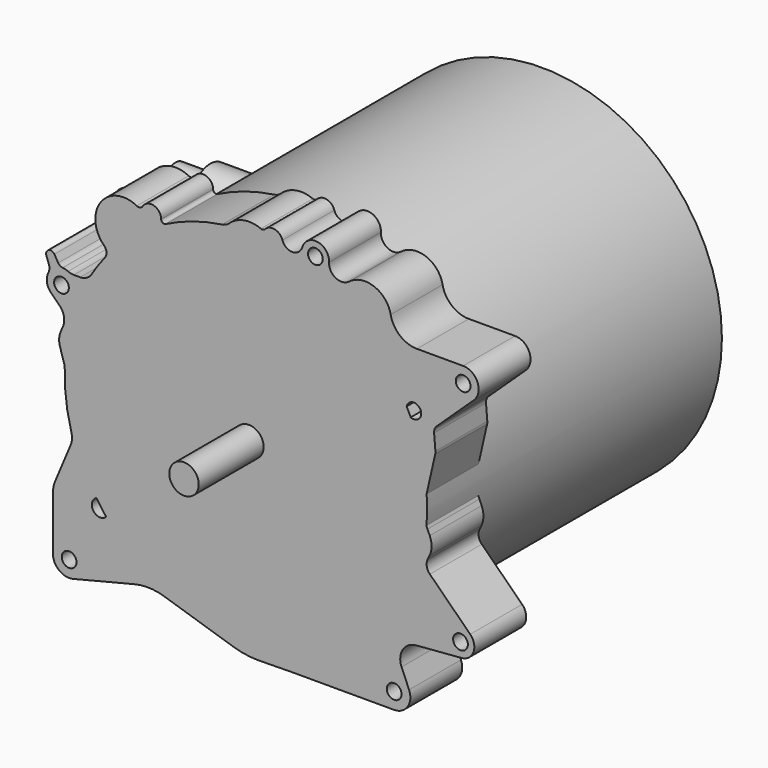
from build123d import *

# Parameters (mm, degrees)
SKETCH_R      = 10
PAD_DEPTH     = 55
SKETCH001_R   = 5
SKETCH001_R_2 = 5.752102
PAD001_DEPTH  = 44
SKETCH002_R   = 122
PAD002_DEPTH  = 250
PAD003_DEPTH  = 137
SKETCH004_R   = 9.029167
SKETCH004_R_2 = 6.410546
PAD004_DEPTH  = 28
SKETCH005_R   = 9.029167
SKETCH005_R_2 = 6.410546
PAD005_DEPTH  = 24


with BuildPart() as part:
    # Sketch → Pad (new body)
    with BuildSketch(Plane.XZ):
        Circle(SKETCH_R)
    extrude(amount=PAD_DEPTH)

    # Sketch001 → Pad001 (join)
    with BuildSketch(Plane.XZ):
        with BuildLine():
            ThreePointArc((96.175862, 107.050758), (85.01162, 120.214268), (67.94679, 117.623927))
            ThreePointArc((54.367316, 124.71944), (58.880143, 116.814107), (67.94679, 117.623927))
            ThreePointArc((54.367316, 124.71944), (46.670454, 134.337495), (36.21786, 127.81891))
            ThreePointArc((22.758705, 127.681071), (29.539283, 122.770138), (36.21786, 127.81891))
            ThreePointArc((22.758705, 127.681071), (17.601424, 132.416088), (10.911961, 130.349928))
            ThreePointArc((8.144721, 129.75708), (9.62161, 129.618152), (10.911961, 130.349928))
            ThreePointArc((8.144721, 129.75708), (-3.17481, 131.027317), (-13.371145, 125.949913))
            ThreePointArc((-18.099593, 123.682678), (-15.562998, 124.456805), (-13.371145, 125.949913))
            ThreePointArc((-18.099593, 123.682678), (-37.745711, 119.164849), (-56.410125, 111.547738))
            ThreePointArc((-59.467861, 113.415794), (-58.459377, 111.629973), (-56.410125, 111.547738))
            ThreePointArc((-59.467861, 113.415794), (-64.373735, 119.916678), (-72.004271, 117.069923))
            ThreePointArc((-76.03682, 116.00781), (-73.814492, 115.756539), (-72.004271, 117.069923))
            ThreePointArc((-76.03682, 116.00781), (-100.534649, 110.217356), (-98.248389, 85.148531))
            ThreePointArc((-97.764943, 77.891051), (-96.600774, 81.613442), (-98.248389, 85.148531))
            ThreePointArc((-97.764943, 77.891051), (-102.377192, 71.721061), (-106.600626, 65.278684))
            ThreePointArc((-114.445294, 60.883833), (-109.949364, 62.057409), (-106.600626, 65.278684))
            Line((-118.727486, 60.883833), (-114.445294, 60.883833))
            ThreePointArc((-122.640758, 61.745456), (-120.730989, 61.101788), (-118.727486, 60.883833))
            ThreePointArc((-122.640758, 61.745456), (-124.406768, 62.380022), (-126.256912, 62.693763))
            ThreePointArc((-129.326019, 64.601052), (-128.023095, 63.274682), (-126.256912, 62.693763))
            Line((-129.326019, 64.601052), (-131.922169, 68.949759))
            ThreePointArc((-131.922169, 68.949759), (-135.945808, 70.073625), (-137.270814, 66.111667))
            Line((-135.647932, 61.659144), (-137.270814, 66.111667))
            ThreePointArc((-135.958333, 56.645211), (-135.280116, 59.119799), (-135.647932, 61.659144))
            ThreePointArc((-135.958333, 56.645211), (-136.967186, 50.815076), (-134.488163, 45.442673))
            Line((-128.394518, 39.452321), (-134.488163, 45.442673))
            ThreePointArc((-126.12643, 27.585779), (-125.408538, 33.873016), (-128.394518, 39.452321))
            Line((-127.60596, 24.238917), (-126.12643, 27.585779))
            ThreePointArc((-127.60596, 24.238917), (-128.700482, 19.721553), (-128.147111, 15.106542))
            Line((-124.916008, 4.581578), (-128.147111, 15.106542))
            ThreePointArc((-124.916008, 4.581578), (-124.14364, -14.606734), (-120.441181, -33.45029))
            ThreePointArc((-120.957831, -41.567166), (-120.014396, -37.552337), (-120.441181, -33.45029))
            Line((-131.420927, -66.450927), (-120.957831, -41.567166))
            ThreePointArc((-131.420927, -66.450927), (-132.541496, -70.092422), (-132.92, -73.883583))
            Line((-132.92, -73.883583), (-132.92, -110.12))
            ThreePointArc((-132.92, -110.12), (-128.693171, -118.787419), (-119.261062, -120.793802))
            Line((-77.676912, -110.434825), (-119.261062, -120.793802))
            ThreePointArc((-57.595038, -111.058963), (-67.59276, -109.356427), (-77.676912, -110.434825))
            Line((-57.595038, -111.058963), (-10.608757, -125.917415))
            ThreePointArc((-10.608757, -125.917415), (-1.840442, -127.933804), (7.137416, -128.523075))
            Line((7.137416, -128.523075), (26.044697, -128.245047))
            ThreePointArc((33.531981, -128.19), (29.788238, -128.203762), (26.044697, -128.245047))
            Line((33.531981, -128.19), (98.52, -128.19))
            ThreePointArc((98.52, -128.19), (107.693886, -123.259581), (108.643935, -112.888147))
            Line((108.643935, -112.888147), (103.568399, -100.943433))
            ThreePointArc((113.34084, -84.800022), (104.323208, -90.37077), (103.568399, -100.943433))
            Line((113.34084, -84.800022), (144.283252, -82.30988))
            ThreePointArc((144.283252, -82.30988), (152.354382, -76.160143), (150.121204, -66.261894))
            Line((150.121204, -66.261894), (122.754449, -39.291647))
            ThreePointArc((121.283431, -30.889473), (120.674662, -35.32591), (122.754449, -39.291647))
            Line((122.493763, -28.358461), (121.283431, -30.889473))
            ThreePointArc((122.493763, -28.358461), (123.902721, -22.337711), (122.659289, -16.280611))
            Line((121.143318, -12.873569), (122.659289, -16.280611))
            ThreePointArc((119.540487, 3.52367), (119.013733, -4.804778), (121.143318, -12.873569))
            Line((126.394372, 33.640226), (119.540487, 3.52367))
            ThreePointArc((126.394372, 33.640226), (126.522404, 34.506324), (126.516063, 35.38181))
            Line((125.62119, 45.978723), (126.516063, 35.38181))
            ThreePointArc((127.371051, 50.552529), (125.973127, 48.465714), (125.62119, 45.978723))
            Line((152.523328, 74.255672), (127.371051, 50.552529))
            ThreePointArc((152.523328, 74.255672), (155.085641, 85.790421), (145.31, 92.427644))
            Line((113.958558, 92.427644), (145.31, 92.427644))
            ThreePointArc((96.175862, 107.050758), (102.447045, 96.552903), (113.958558, 92.427644))
        make_face()
        with Locations((145.31, 81.91)):
            Circle(SKETCH001_R, mode=Mode.SUBTRACT)
        with Locations((45.11, 125.2)):
            Circle(SKETCH001_R, mode=Mode.SUBTRACT)
        with Locations((143.53, -72.95)):
            Circle(SKETCH001_R, mode=Mode.SUBTRACT)
        with Locations((98.52, -117.19)):
            Circle(SKETCH001_R, mode=Mode.SUBTRACT)
        with Locations((-121.92, -110.12)):
            Circle(SKETCH001_R, mode=Mode.SUBTRACT)
        with Locations((-127.1, 52.11)):
            Circle(SKETCH001_R, mode=Mode.SUBTRACT)
        with Locations((111.87, 54.67)):
            Circle(SKETCH001_R, mode=Mode.SUBTRACT)
        with Locations((-100.79, -72.38)):
            Circle(SKETCH001_R_2, mode=Mode.SUBTRACT)
    extrude(amount=-PAD001_DEPTH)

    # Sketch002 → Pad002 (join)
    with BuildSketch(Plane.XZ):
        with Locations((-1.164187, -0.6689)):
            Circle(SKETCH002_R)
    extrude(amount=-PAD002_DEPTH)

    # Sketch003 → Pad003 (join)
    with BuildSketch(Plane(origin=(0, 0, 0), x_dir=(0, 1, -0.000994), z_dir=(1, 0, 0))):
        with BuildLine():
            ThreePointArc((154.118951, 45.729048), (139.583053, 65.163428), (122.55534, 47.870527))
            Line((125.500082, 12.556877), (122.55534, 47.870527))
            ThreePointArc((125.500082, 12.556877), (134.874857, 2.158872), (146.249936, 10.320521))
            Line((146.249936, 10.320521), (154.118951, 45.729048))
        make_face()
        with BuildLine():
            ThreePointArc((112.284143, 46.589719), (96.718502, 65.207545), (80.65021, 47.021765))
            Line((85.598581, 11.164033), (80.65021, 47.021765))
            ThreePointArc((85.598581, 11.164033), (95.856629, 2.100452), (106.358344, 10.880544))
            Line((106.358344, 10.880544), (112.284143, 46.589719))
        make_face()
    extrude(amount=-PAD003_DEPTH)

    # Sketch004 (on Face91 of Pad003) → Pad004 (join)
    with BuildSketch(Plane(origin=(-137, 0, 0), x_dir=(0, 0, -1), z_dir=(-1, 0, 0))):
        with Locations((-48.752483, -96.561478)):
            Circle(SKETCH004_R)
        with Locations((-48.752483, -96.561478)):
            Circle(SKETCH004_R_2, mode=Mode.SUBTRACT)
    extrude(amount=PAD004_DEPTH)

    # Sketch005 (on Face90 of Pad004) → Pad005 (join)
    with BuildSketch(Plane(origin=(-137, 0, 0), x_dir=(0, 0, -1), z_dir=(-1, 0, 0))):
        with Locations((-48.752483, -139.271042)):
            Circle(SKETCH005_R)
        with Locations((-48.752483, -139.271042)):
            Circle(SKETCH005_R_2, mode=Mode.SUBTRACT)
    extrude(amount=PAD005_DEPTH)


solid = part.part
